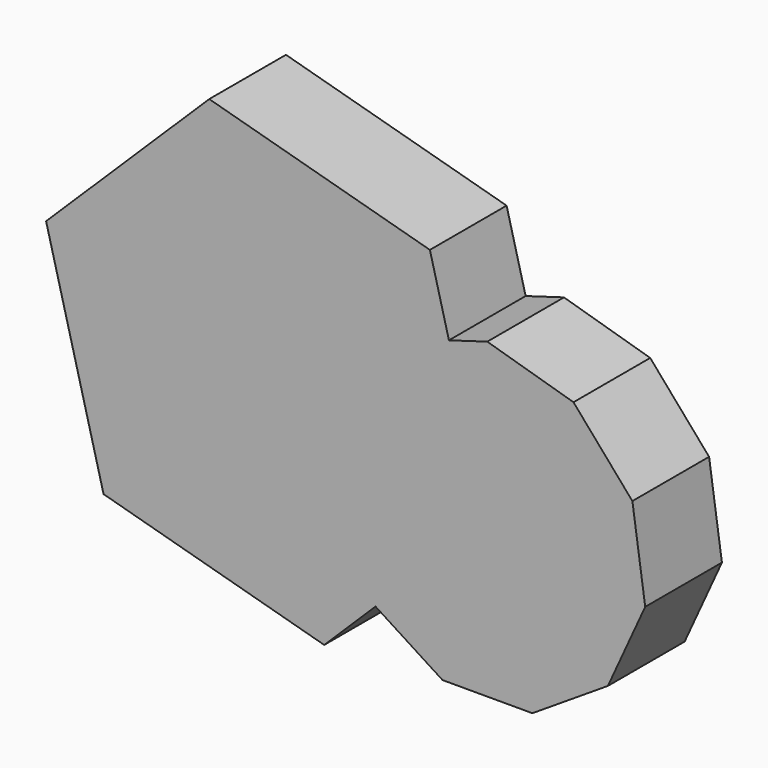
from build123d import *

# Parameters (mm, degrees)
F1_DEPTH = 25.4


with BuildPart() as f1:
    # F0 (on Front) → F1 (new body)
    with BuildSketch(Plane.XZ):
        Polygon((11.4290869177, 40.5797288132), (21.6104751913, 1.3277241618), (-8.0085269799, -27.8206992101), (9.7304828863, -39.2081166473), (33.5317198059, -39.1960038763), (53.5480457919, -26.3178937802), (63.4244187723, -4.6624953221), (60.0251601089, 18.8947554972), (44.4295104094, 36.8745979902), (21.5889782597, 43.5685592049), align=None)
        Polygon((-8.0085269799, -27.8206992101), (21.6104751913, 1.3277241618), (11.4290869177, 40.5797288132), (-1.2447287661, 36.8513537529), (-16.8220700226, 18.8556469037), (-20.1973497251, -4.7050515697), (-10.2989404166, -26.350386374), align=None)
        Polygon((-21.6104751913, -41.2065432996), (-8.0085269799, -27.8206992101), (-10.2989404166, -26.350386374), (-20.1973497251, -4.7050515697), (-16.8220700226, 18.8556469037), (-1.2447287661, 36.8513537529), (11.4290869177, 40.5797288132), (6.3851942297, 60.0252988994), (-52.0610371144, 76.1886061758), (-95.281987497, 33.6543387145), (-80.0567065354, -25.0432360232), align=None)
    extrude(amount=F1_DEPTH)


solid = f1.part
